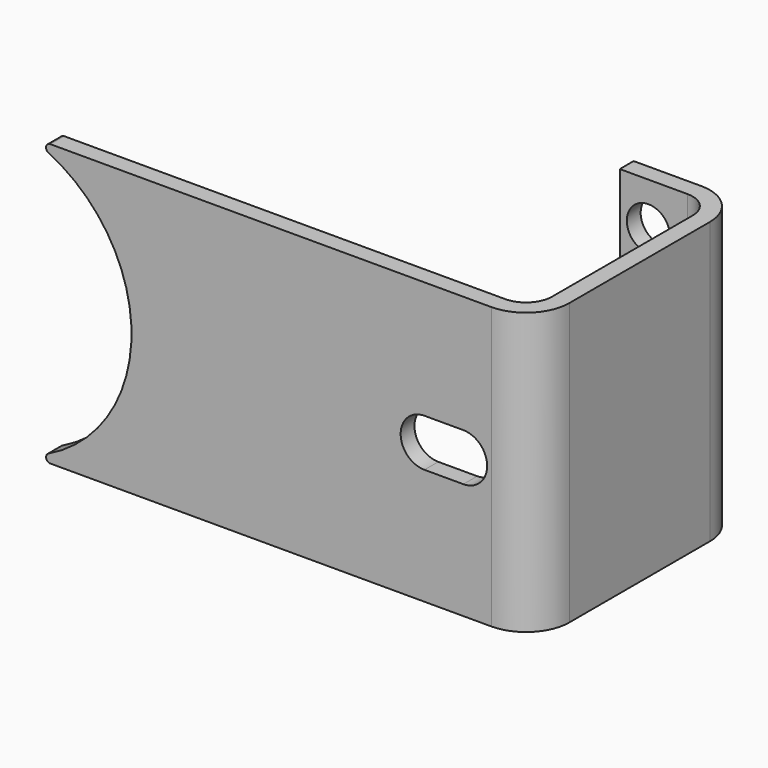
from build123d import *

# Parameters (mm, degrees)
F1_DEPTH  = 65
F3_R      = 5
F4_DEPTH  = 4
F7_DEPTH  = 25
F8_R      = 1
F10_DEPTH = 4.001


with BuildPart() as f1:
    # F0 (on Top) → F1 (new body)
    with BuildSketch(Plane.XY):
        with BuildLine():
            Line((-71.158341, -41.139144), (-71.158341, -45.139144))
            Line((-71.158341, -45.139144), (45.970776, -45.139144))
            ThreePointArc((45.970776, -45.139144), (53.041844, -42.210212), (55.970776, -35.139144))
            Line((55.970776, -35.139144), (55.970776, 5.481472))
            ThreePointArc((55.970776, 5.481472), (53.041844, 12.552539), (45.970776, 15.481472))
            Line((45.970776, 15.481472), (30.353561, 15.481472))
            Line((30.353561, 15.481472), (30.353561, 11.481472))
            Line((30.353561, 11.481472), (45.970776, 11.481472))
            ThreePointArc((45.970776, 11.481472), (50.213417, 9.724112), (51.970776, 5.481472))
            Line((51.970776, 5.481472), (51.970776, -35.139144))
            ThreePointArc((51.970776, -35.139144), (50.213417, -39.381785), (45.970776, -41.139144))
            Line((45.970776, -41.139144), (-71.158341, -41.139144))
        make_face()
    extrude(amount=F1_DEPTH)

    # F3 (on face) → F4 (cut)
    with BuildSketch(Plane(origin=(0, 15.481472, 0), x_dir=(-1, 0, 0), z_dir=(0, 1, 0))):
        with Locations((-36.970776, 10)):
            Circle(F3_R)
        with Locations((-36.970776, 55)):
            Circle(F3_R)
    extrude(amount=-F4_DEPTH, mode=Mode.SUBTRACT)

    # F6 (on face) → F7 (cut)
    with BuildSketch(Plane(origin=(0, -41.139144, 0), x_dir=(-1, 0, 0), z_dir=(0, 1, 0))):
        with BuildLine():
            Line((78.911833, 65.031889), (61.355465, 65.031889))
            ThreePointArc((61.355465, 65.031889), (37.238592, 32.5), (61.355465, -0.031889))
            Line((61.355465, -0.031889), (78.911833, -0.031889))
            Line((78.911833, -0.031889), (78.911833, 65.031889))
        make_face()
    extrude(amount=-F7_DEPTH, mode=Mode.SUBTRACT)

    # F8
    f8_edges = [f1.edges().sort_by_distance(p)[0] for p in [
        (-61.2511, -43.139144, 65),
        (-61.2511, -43.139144, 0),
    ]]
    fillet(f8_edges, radius=F8_R)

    # F9 (on face) → F10 (cut, through all)
    with BuildSketch(Plane(origin=(0, -41.139144, 0), x_dir=(-1, 0, 0), z_dir=(0, 1, 0))):
        with BuildLine():
            Line((-39.483187, 26.849984), (-30.483187, 26.849984))
            ThreePointArc((-30.483187, 26.849984), (-24.983187, 32.349983), (-30.483186, 37.849984))
            Line((-30.483186, 37.849984), (-39.483187, 37.849984))
            ThreePointArc((-39.483187, 37.849984), (-44.983187, 32.349984), (-39.483187, 26.849984))
        make_face()
    extrude(amount=-F10_DEPTH, mode=Mode.SUBTRACT)


solid = f1.part
